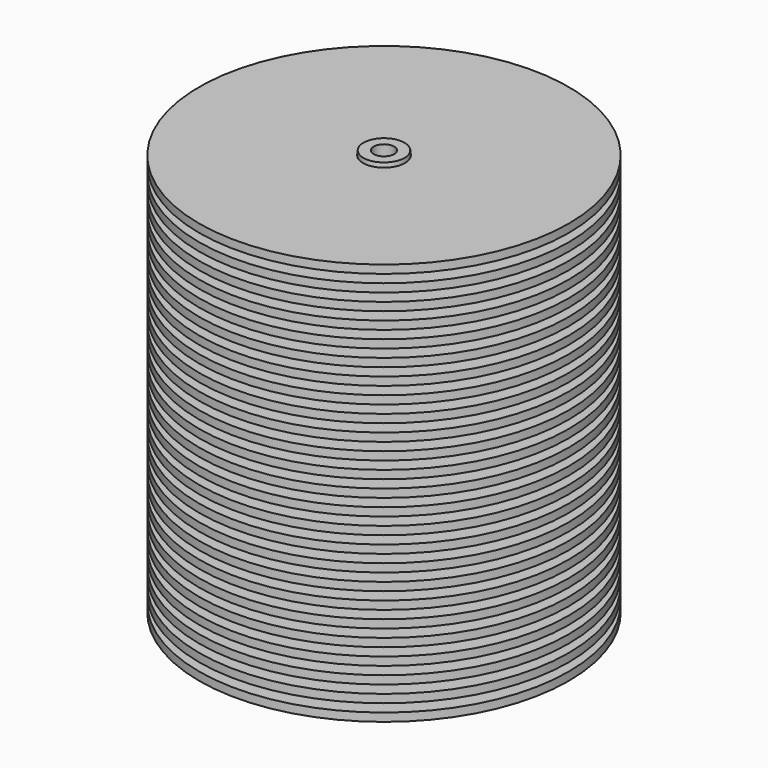
from build123d import *

# Parameters (mm, degrees)
F1_R          = 2.5
F1_R_2        = 2.15
F2_DEPTH      = 50
F2_DEPTH_BACK = 50
F0_W          = 45
F0_H          = 2
F6_DEPTH      = 50.001
F6_DEPTH_BACK = 50.0631497295
F7_DEPTH      = 100.001


with BuildPart() as f2:
    # F1 (on Top) → F2 (new body, two sides)
    with BuildSketch(Plane.XY) as f2_sk:
        Circle(F1_R)
        Circle(F1_R_2, mode=Mode.SUBTRACT)
    extrude(amount=F2_DEPTH)
    extrude(f2_sk.sketch, amount=-F2_DEPTH_BACK)

    # F0 (on Front) → F3 (revolve)
    with BuildSketch(Plane.XZ):
        with Locations((22.5, -16)):
            Rectangle(F0_W, F0_H)
        with Locations((22.5, 44)):
            Rectangle(F0_W, F0_H)
        with Locations((22.5, -12)):
            Rectangle(F0_W, F0_H)
        with Locations((22.5, -32)):
            Rectangle(F0_W, F0_H)
        with Locations((22.5, -36)):
            Rectangle(F0_W, F0_H)
        with Locations((22.5, -44)):
            Rectangle(F0_W, F0_H)
        with Locations((22.5, 12)):
            Rectangle(F0_W, F0_H)
        with Locations((22.5, 32)):
            Rectangle(F0_W, F0_H)
        with Locations((22.5, 40)):
            Rectangle(F0_W, F0_H)
        with Locations((22.5, 24)):
            Rectangle(F0_W, F0_H)
        with Locations((22.5, 28)):
            Rectangle(F0_W, F0_H)
        with Locations((22.5, 4)):
            Rectangle(F0_W, F0_H)
        with Locations((22.5, 16)):
            Rectangle(F0_W, F0_H)
        with Locations((22.5, 8)):
            Rectangle(F0_W, F0_H)
        with Locations((22.5, -28)):
            Rectangle(F0_W, F0_H)
        with Locations((22.5, -24)):
            Rectangle(F0_W, F0_H)
        with Locations((22.5, -20)):
            Rectangle(F0_W, F0_H)
        with Locations((22.5, -8)):
            Rectangle(F0_W, F0_H)
        with Locations((22.5, -4)):
            Rectangle(F0_W, F0_H)
        with Locations((22.5, 20)):
            Rectangle(F0_W, F0_H)
        with Locations((22.5, 36)):
            Rectangle(F0_W, F0_H)
        with Locations((22.5, -40)):
            Rectangle(F0_W, F0_H)
        with Locations((22.5, -48)):
            Rectangle(F0_W, F0_H)
        with Locations((22.5, 48)):
            Rectangle(F0_W, F0_H)
        with Locations((22.5, 0)):
            Rectangle(F0_W, F0_H)
    revolve(axis=Axis((0, 0, 0), (0, 0, -1)))

    # F4 (on Front) → F5 (revolve)
    with BuildSketch(Plane.XZ):
        Polygon((5, 50.0621497295), (0, 50.0621497295), (0, -49.9378502705), (15, -49.9378502705), align=None)
    revolve(axis=Axis((0, 0, 0.0621497295), (0, 0, -1)))

    # F1 (on Top) → F6 (cut, two sides)
    with BuildSketch(Plane.XY) as f6_sk:
        Circle(F1_R)
        Circle(F1_R_2, mode=Mode.SUBTRACT)
    extrude(amount=-F6_DEPTH, mode=Mode.SUBTRACT)
    extrude(f6_sk.sketch, amount=F6_DEPTH_BACK, mode=Mode.SUBTRACT)

    # F7 (cut, through all): a face of the model
    f7_faces = [f2.faces().sort_by_distance(p)[0] for p in [
        (0, 0, 50.0621497295),
    ]]
    extrude(f7_faces, amount=-F7_DEPTH, mode=Mode.SUBTRACT)


solid = f2.part
